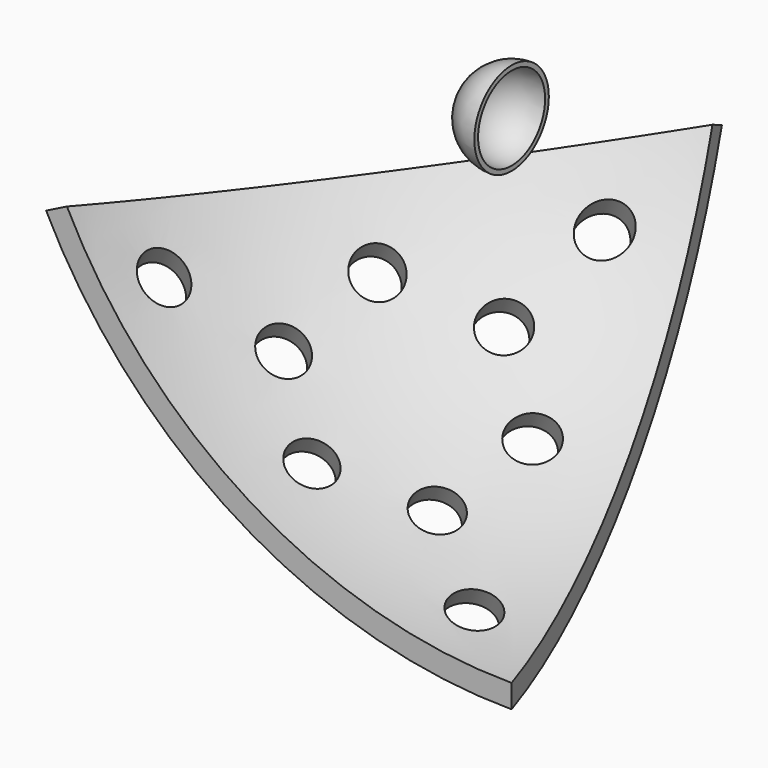
from build123d import *

# Parameters (mm, degrees)
BOX_W             = 20
BOX_H             = 20
BOX_DEPTH         = 20
BOX001_W          = 400
BOX001_H          = 400
BOX001_DEPTH      = 400
BOX002_W          = 400
BOX002_H          = 400
BOX002_DEPTH      = 400
BOX003_W          = 400
BOX003_H          = 400
BOX003_DEPTH      = 400
BOX004_W          = 400
BOX004_H          = 400
BOX004_DEPTH      = 400
BOX005_W          = 400
BOX005_H          = 400
BOX005_DEPTH      = 400
BOX006_W          = 400
BOX006_H          = 400
BOX006_DEPTH      = 400
BOX007_W          = 400
BOX007_H          = 400
BOX007_DEPTH      = 400
SKETCH_R          = 5
POCKET_DEPTH      = 46.916976
POCKET_DEPTH_BACK = -87.022417


with BuildPart() as body:
    # Sphere → Sphere (revolve)
    with BuildSketch(Plane.XZ):
        with BuildLine():
            ThreePointArc((0, -10), (10, 0), (0, 10))
            Line((0, 10), (0, -10))
        make_face()
    revolve(axis=Axis((0, 0, 0), (0, 0, 1)))

    # Sphere001 → Sphere001 (revolve, cut)
    with BuildSketch(Plane.XZ):
        with BuildLine():
            ThreePointArc((0, -9), (9, 0), (0, 9))
            Line((0, 9), (0, -9))
        make_face()
    revolve(axis=Axis((0, 0, 0), (0, 0, 1)), mode=Mode.SUBTRACT)

    # Box → Box (cut)
    with BuildSketch(Plane(origin=(0, -10, -10), x_dir=(0, 0, 1), z_dir=(0, 1, 0))):
        with Locations((10, 10)):
            Rectangle(BOX_W, BOX_H)
    extrude(amount=BOX_DEPTH, mode=Mode.SUBTRACT)


with BuildPart() as body002:
    # Sphere002 → Sphere002 (revolve)
    with BuildSketch(Plane.XZ):
        with BuildLine():
            ThreePointArc((0, -111.803399), (111.803399, 0), (0, 111.803399))
            Line((0, 111.803399), (0, -111.803399))
        make_face()
    revolve(axis=Axis((0, 0, 0), (0, 0, 1)))

    # Sphere003 → Sphere003 (revolve, cut)
    with BuildSketch(Plane.XZ):
        with BuildLine():
            ThreePointArc((0, -106.803399), (106.803399, 0), (0, 106.803399))
            Line((0, 106.803399), (0, -106.803399))
        make_face()
    revolve(axis=Axis((0, 0, 0), (0, 0, 1)), mode=Mode.SUBTRACT)

    # Box001 → Box001 (cut)
    with BuildSketch(Plane(origin=(-154.304859, -172.312072, -71.812889), x_dir=(0.951057, 0.309017, 0), z_dir=(0.16246, -0.5, 0.850651))):
        with Locations((200, 200)):
            Rectangle(BOX001_W, BOX001_H)
    extrude(amount=BOX001_DEPTH, mode=Mode.SUBTRACT)

    # Box002 → Box002 (cut)
    with BuildSketch(Plane(origin=(-298.829142, 30.101515, -138.479556), x_dir=(0.587785, -0.809017, 0), z_dir=(-0.425325, -0.309017, 0.850651))):
        with Locations((200, 200)):
            Rectangle(BOX002_W, BOX002_H)
    extrude(amount=BOX002_DEPTH, mode=Mode.SUBTRACT)

    # Box003 → Box003 (cut)
    with BuildSketch(Plane(origin=(-63.715041, 293.505283, -138.479556), x_dir=(-0.587785, -0.809017, 0), z_dir=(-0.425325, 0.309017, 0.850651))):
        with Locations((200, 200)):
            Rectangle(BOX003_W, BOX003_H)
    extrude(amount=BOX003_DEPTH, mode=Mode.SUBTRACT)

    # Box004 → Box004 (cut)
    with BuildSketch(Plane(origin=(259.451081, 151.294726, -138.479556), x_dir=(-0.951057, 0.309017, 0), z_dir=(0.16246, 0.5, 0.850651))):
        with Locations((200, 200)):
            Rectangle(BOX004_W, BOX004_H)
    extrude(amount=BOX004_DEPTH, mode=Mode.SUBTRACT)

    # Box005 → Box005 (cut)
    with BuildSketch(Plane(origin=(224.064628, -200, -138.479556), x_dir=(0, 1, 0), z_dir=(0.525731, 0, 0.850651))):
        with Locations((200, 200)):
            Rectangle(BOX005_W, BOX005_H)
    extrude(amount=BOX005_DEPTH, mode=Mode.SUBTRACT)

    # Box006 → Box006 (cut)
    with BuildSketch(Plane(origin=(-233.333333, 0, -253.934466), x_dir=(1, 0, 0), z_dir=(0, -1, 0))):
        with Locations((200, 200)):
            Rectangle(BOX006_W, BOX006_H)
    extrude(amount=BOX006_DEPTH, mode=Mode.SUBTRACT)

    # Box007 → Box007 (cut)
    with BuildSketch(Plane(origin=(51.502832, -158.509419, -253.934466), x_dir=(-0.309017, 0.951057, 0), z_dir=(0.951057, 0.309017, 0))):
        with Locations((200, 200)):
            Rectangle(BOX007_W, BOX007_H)
    extrude(amount=BOX007_DEPTH, mode=Mode.SUBTRACT)

    # Sketch (on DatumPlane) → Pocket (cut, two sides)
    with BuildSketch(Plane(origin=(-41.682532, 30.284133, -67.443754), x_dir=(-0.587785, -0.809017, 0), z_dir=(-0.491123, 0.356822, -0.794654))) as pocket_sk:
        with Locations((-37.141174, 21.443467)):
            Circle(SKETCH_R)
        with Locations((-18.148411, 9.243762)):
            Circle(SKETCH_R)
        with Locations((1.168291, 21.949352)):
            Circle(SKETCH_R)
        with Locations((-18.42455, -11.986446)):
            Circle(SKETCH_R)
        with Locations((0.292073, -45.416358)):
            Circle(SKETCH_R)
        with Locations((19.884915, -11.480561)):
            Circle(SKETCH_R)
        with Locations((39.477756, 22.455237)):
            Circle(SKETCH_R)
        with Locations((20.161054, 9.749647)):
            Circle(SKETCH_R)
        with Locations((0.584146, -22.961122)):
            Circle(SKETCH_R)
    extrude(amount=-POCKET_DEPTH, mode=Mode.SUBTRACT)
    extrude(pocket_sk.sketch, amount=-POCKET_DEPTH_BACK, mode=Mode.SUBTRACT)


solid = Compound([body.part, body002.part])
